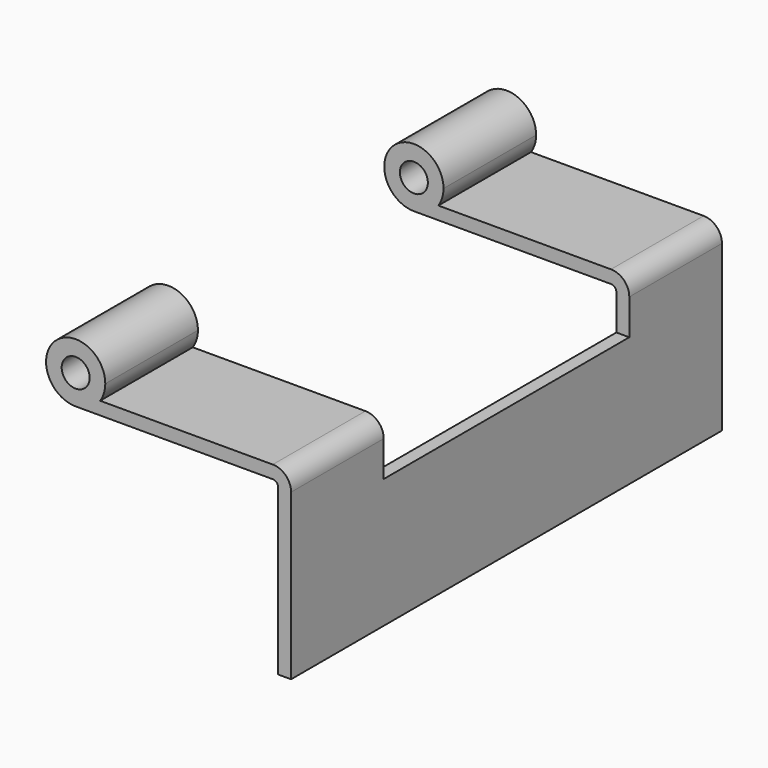
from build123d import *

# Parameters (mm, degrees)
F1_DEPTH = 50
F2_D     = 2.6
F3_W     = 28.5
F3_H     = 6.7
F3_H_2   = 3.3
F4_DEPTH = 25


with BuildPart() as f1:
    # F0 (on Front) → F1 (new body)
    with BuildSketch(Plane.XZ):
        with BuildLine():
            ThreePointArc((2.2715633383, -1.55), (1.2845232579, -2.4315632832), (0, -2.75))
            Line((0, -2.75), (18.3, -2.75))
            ThreePointArc((18.3, -2.75), (18.6535533906, -2.8964466094), (18.8, -3.25))
            Line((18.8, -3.25), (18.8, -18.55))
            Line((18.8, -18.55), (20, -18.55))
            Line((20, -18.55), (20, -3.25))
            ThreePointArc((20, -3.25), (19.502081528, -2.047918472), (18.3, -1.55))
            Line((18.3, -1.55), (2.2715633383, -1.55))
        make_face()
        with BuildLine():
            ThreePointArc((2.2715633383, -1.55), (2.6276699926, -0.8110797802), (2.75, 0))
            ThreePointArc((2.75, 0), (-1.9445436483, 1.9445436483), (0, -2.75))
            ThreePointArc((0, -2.75), (1.2845232579, -2.4315632832), (2.2715633383, -1.55))
        make_face()
    extrude(amount=-F1_DEPTH)

    # F2 (through all)
    with Locations(Plane.XZ):
        with Locations((0, 0)):
            Hole(F2_D / 2)

    # F3 (on face) → F4 (cut)
    with BuildSketch(Plane.YZ.offset(20)):
        with Locations((25, 0.1)):
            Rectangle(F3_W, F3_H)
        with Locations((25, -4.9)):
            Rectangle(F3_W, F3_H_2)
    extrude(amount=-F4_DEPTH, mode=Mode.SUBTRACT)


solid = f1.part
